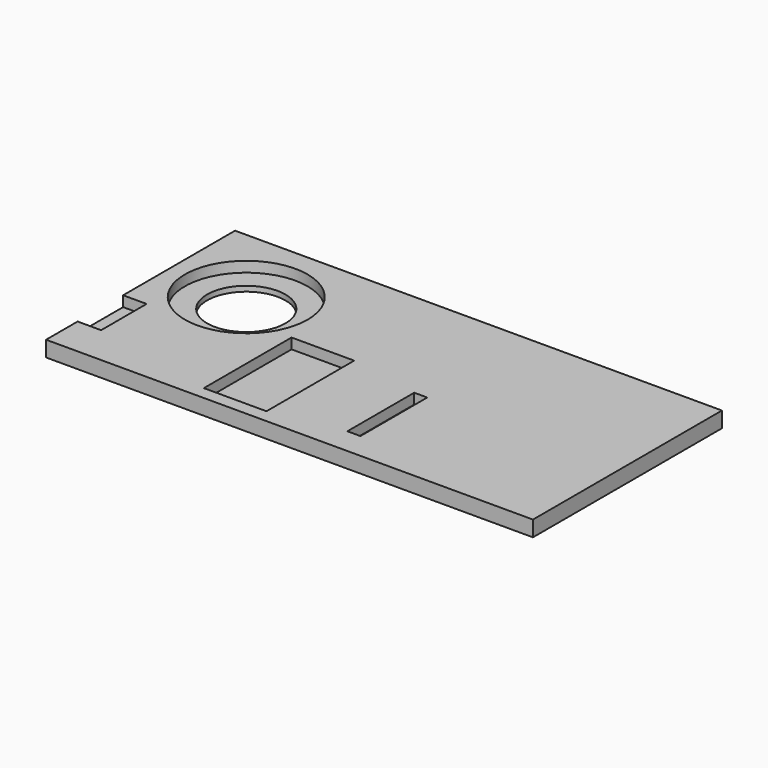
from build123d import *

# Parameters (mm, degrees)
F0_R     = 23.5
F1_DEPTH = 6
F0_R_2   = 15
F0_W     = 9
F0_H     = 21.781876
F2_DEPTH = 2


with BuildPart() as f1:
    # F0 (on Top) → F1 (new body)
    with BuildSketch(Plane.XY):
        Polygon((93.274513, 69.105171), (-93.274513, 69.105171), (-93.274513, 15.496109), (-84.274513, 15.496109), (-84.274513, -6.285767), (-93.274513, -6.285767), (-93.274513, -21.394829), (93.274513, -21.394829), (93.274513, -11.394829), (93.274513, 20.605171), align=None)
        Polygon((-36.825487, 25.605171), (-33.825487, 25.605171), (-15.825487, 25.605171), (-12.825487, 25.605171), (-12.825487, -16.394829), (-15.825487, -16.394829), (-33.825487, -16.394829), (-36.825487, -16.394829), align=None, mode=Mode.SUBTRACT)
        Polygon((14.174513, 13.605171), (14.174513, 20.605171), (19.174513, 20.605171), (19.174513, -11.394829), (14.174513, -11.394829), (14.174513, -4.394829), align=None, mode=Mode.SUBTRACT)
        with Locations((-63.774513, 37.605171)):
            Circle(F0_R, mode=Mode.SUBTRACT)
    extrude(amount=F1_DEPTH)

    # F0 (on Top) → F2 (join)
    with BuildSketch(Plane.XY):
        with Locations((-63.774513, 37.605171)):
            Circle(F0_R)
        with Locations((-63.774513, 37.605171)):
            Circle(F0_R_2, mode=Mode.SUBTRACT)
        with Locations((-88.774513, 4.605171)):
            Rectangle(F0_W, F0_H)
        Polygon((-15.825487, 25.605171), (-33.825487, 25.605171), (-36.825487, 25.605171), (-36.825487, -16.394829), (-33.825487, -16.394829), (-15.825487, -16.394829), (-12.825487, -16.394829), (-12.825487, 25.605171), align=None)
        Polygon((19.174513, 20.605171), (14.174513, 20.605171), (14.174513, 13.605171), (14.174513, -4.394829), (14.174513, -11.394829), (19.174513, -11.394829), align=None)
    extrude(amount=F2_DEPTH)


solid = f1.part
